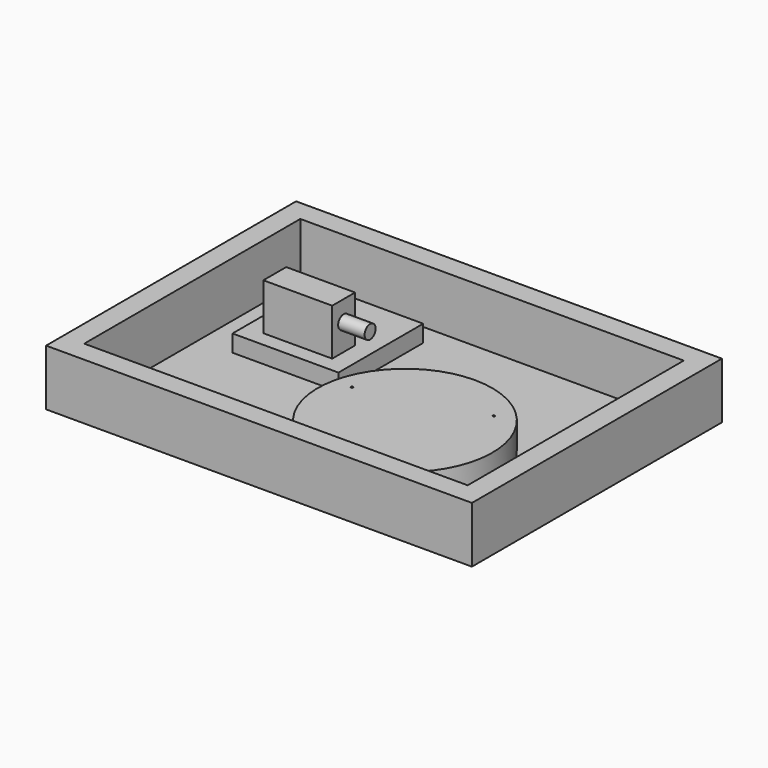
from build123d import *

# Parameters (mm, degrees)
F0_W      = 4020
F0_H      = 2950
F1_DEPTH  = 10
F2_W      = 4020
F2_H      = 2950
F2_W_2    = 3620
F2_H_2    = 2550
F3_DEPTH  = 520
F4_W      = 1000
F4_H      = 1000
F5_DEPTH  = 160
F7_DEPTH  = 260
F8_W      = 650
F8_H      = 270
F9_DEPTH  = 440
F10_R     = 65
F11_DEPTH = 250
F12_R     = 10
F13_DEPTH = 280


with BuildPart() as f1:
    # F0 (on Top) → F1 (new body)
    with BuildSketch(Plane.XY):
        Rectangle(F0_W, F0_H)
    extrude(amount=F1_DEPTH)

    # F2 (on face) → F3 (join)
    with BuildSketch(Plane.XY.offset(10)):
        Rectangle(F2_W, F2_H)
        Rectangle(F2_W_2, F2_H_2, mode=Mode.SUBTRACT)
    extrude(amount=F3_DEPTH)

    # F4 (on face) → F5 (join)
    with BuildSketch(Plane.XY.offset(10)):
        with Locations((-990, 575)):
            Rectangle(F4_W, F4_H)
    extrude(amount=F5_DEPTH)

    # F6 (on face) → F7 (join)
    with BuildSketch(Plane.XY.offset(10)):
        with BuildLine():
            Line((333.395402, -1175), (646.604598, -1175))
            ThreePointArc((646.604598, -1175), (490, 460), (333.395402, -1175))
        make_face()
    extrude(amount=F7_DEPTH)

    # F8 (on face) → F9 (join)
    with BuildSketch(Plane.XY.offset(170)):
        with Locations((-990, 355)):
            Rectangle(F8_W, F8_H)
    extrude(amount=F9_DEPTH)

    # F10 (on face) → F11 (join)
    with BuildSketch(Plane.YZ.offset(-665)):
        with Locations((355, 420)):
            Circle(F10_R)
    extrude(amount=F11_DEPTH)

    # F12 (on face) → F13 (cut)
    with BuildSketch(Plane.XY.offset(270)):
        with Locations((955.983369, 100.983369)):
            Circle(F12_R)
        with Locations((660.561751, -1001.54512)):
            Circle(F12_R)
        with Locations((-146.54512, -194.438249)):
            Circle(F12_R)
    extrude(amount=-F13_DEPTH, mode=Mode.SUBTRACT)


solid = f1.part
